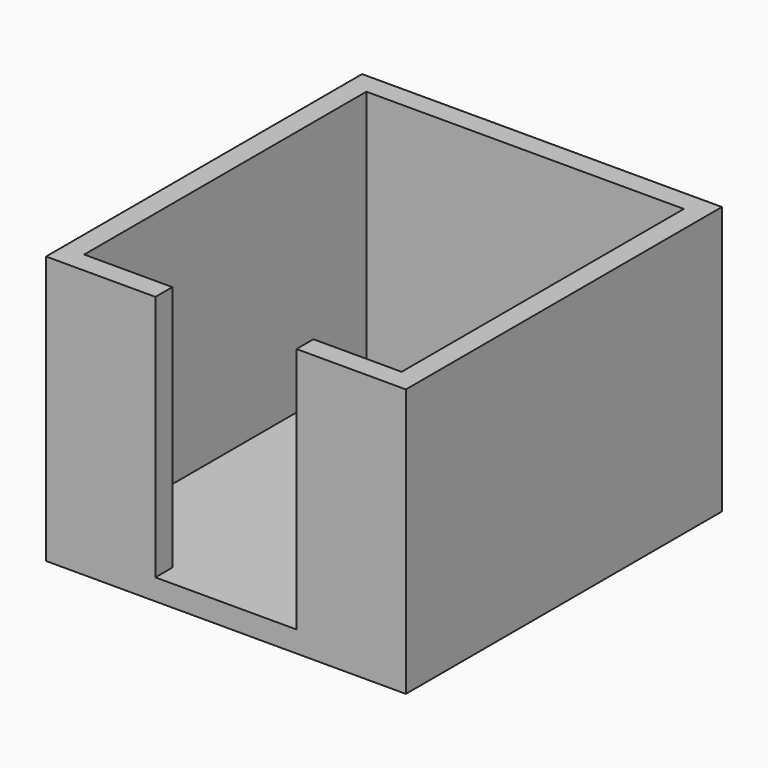
from build123d import *

# Parameters (mm, degrees)
SKETCH_W      = 51
SKETCH_H      = 56
PAD_DEPTH     = 3
SKETCH001_W   = 51
SKETCH001_H   = 56
SKETCH001_W_2 = 45
SKETCH001_H_2 = 50
PAD001_DEPTH  = 35
SKETCH002_W   = 20
SKETCH002_H   = 35
POCKET_DEPTH  = 3


with BuildPart() as part:
    # Sketch → Pad (new body)
    with BuildSketch(Plane.XY):
        Rectangle(SKETCH_W, SKETCH_H)
    extrude(amount=PAD_DEPTH)

    # Sketch001 (on Face6 of Pad) → Pad001 (join)
    with BuildSketch(Plane.XY.offset(3)):
        Rectangle(SKETCH001_W, SKETCH001_H)
        Rectangle(SKETCH001_W_2, SKETCH001_H_2, mode=Mode.SUBTRACT)
    extrude(amount=PAD001_DEPTH)

    # Sketch002 (on Face10 of Pad001) → Pocket (cut)
    with BuildSketch(Plane.XZ.offset(28)):
        with Locations((0, 20.5)):
            Rectangle(SKETCH002_W, SKETCH002_H)
    extrude(amount=-POCKET_DEPTH, mode=Mode.SUBTRACT)


solid = part.part
